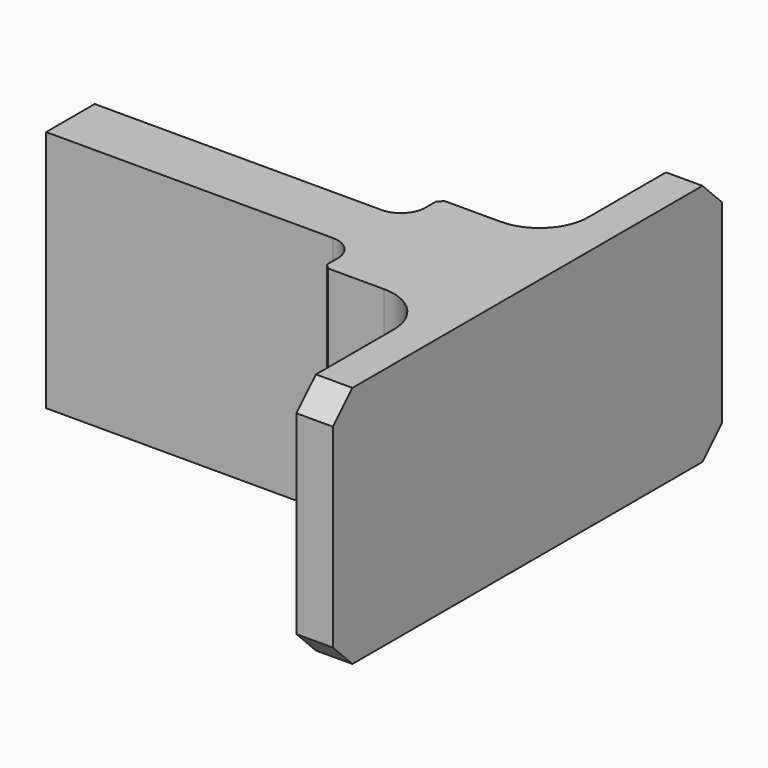
from build123d import *

# Parameters (mm, degrees)
F1_DEPTH = 100
F2_R     = 20
F3_R     = 10
F4_SIZE  = 10
F5_SIZE  = 2


with BuildPart() as f1:
    # F0 (on Top) → F1 (new body)
    with BuildSketch(Plane.XY):
        Polygon((-15, 0), (0, 0), (0, 200), (-15, 200), (-15, 130), (-60, 130), (-60, 112.5), (-188, 112.5), (-188, 87.5), (-60, 87.5), (-60, 70), (-15, 70), align=None)
    extrude(amount=F1_DEPTH)

    # F2
    f2_edges = [f1.edges().sort_by_distance(p)[0] for p in [
        (-15, 70, 50),
        (-15, 130, 50),
    ]]
    fillet(f2_edges, radius=F2_R)

    # F3
    f3_edges = [f1.edges().sort_by_distance(p)[0] for p in [
        (-60, 87.5, 50),
        (-60, 112.5, 50),
    ]]
    fillet(f3_edges, radius=F3_R)

    # F4
    f4_edges = [f1.edges().sort_by_distance(p)[0] for p in [
        (-7.5, 200, 100),
        (-7.5, 0, 100),
        (-7.5, 0, 0),
        (-7.5, 200, 0),
    ]]
    chamfer(f4_edges, length=F4_SIZE)

    # F5
    f5_edges = [f1.edges().sort_by_distance(p)[0] for p in [
        (-60, 70, 50),
        (-60, 130, 50),
    ]]
    chamfer(f5_edges, length=F5_SIZE)


solid = f1.part
